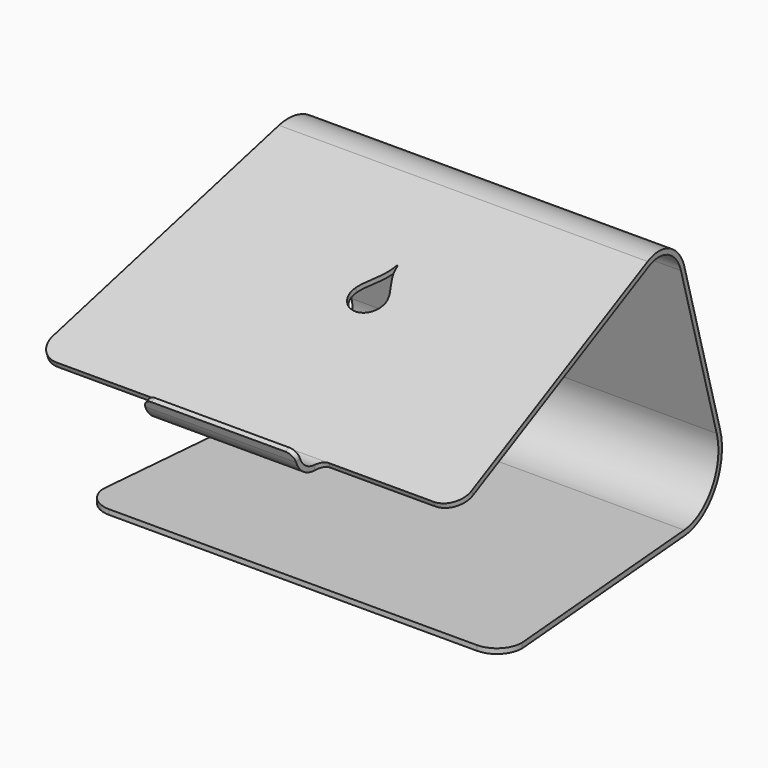
from build123d import *

# Parameters (mm, degrees)
F1_DEPTH  = 125
F2_R      = 26.25
F3_DEPTH  = 25
F4_W      = 97.6103432477
F4_H      = 17.1008444879
F5_DEPTH  = 22.5
F7_DEPTH  = 223
F9_DEPTH  = 25
F10_R     = 5
F12_DEPTH = 25


with BuildPart() as f1:
    # F0 (on Right) → F1 (new body, symmetric)
    with BuildSketch(Plane.YZ):
        with BuildLine():
            Line((150.9032388148, 0), (0, 0))
            Line((0, 0), (0, -3.0000018725))
            Line((0, -3.0000018725), (150.9032388148, -3.0000018725))
            ThreePointArc((150.9032388148, -3.0000018725), (177.0839005299, 9.9108717028), (182.778792891, 38.541028973))
            Line((182.778792891, 38.541028973), (157.1357605543, 134.2421285136))
            ThreePointArc((157.1357605543, 134.2421285136), (145.53968371, 148.6905408156), (127.0530008041, 149.9022220292))
            Line((127.0530008041, 149.9022220292), (-35.6771693401, 90.6732838797))
            ThreePointArc((-35.6771693401, 90.6732838797), (-44.8528287691, 91.0739018222), (-51.0577201094, 97.8453524901))
            Line((-51.0577201094, 97.8453524901), (-52.767820826, 102.543815594))
            Line((-52.767820826, 102.543815594), (-55.586900448, 101.5177545236))
            Line((-55.586900448, 101.5177545236), (-53.8767997313, 96.8192914196))
            ThreePointArc((-53.8767997313, 96.8192914196), (-46.1206843457, 88.354976764), (-34.6511082697, 87.8542042577))
            Line((-34.6511082697, 87.8542042577), (128.0790618745, 147.0831424073))
            ThreePointArc((128.0790618745, 147.0831424073), (144.1544370057, 146.0295066551), (154.2379812668, 133.4656708936))
            Line((154.2379812668, 133.4656708936), (179.8810136034, 37.7645713531))
            ThreePointArc((179.8810136034, 37.7645713531), (174.7038390235, 11.7371571297), (150.9032388148, 0))
        make_face()
    extrude(amount=F1_DEPTH, both=True)

    # F2 (on face) → F3 (cut)
    with BuildSketch(Plane(origin=(0, 180.1701926471, 48.2764576199), x_dir=(-1, 0, 0), z_dir=(0, 0.9659258263, 0.2588190451))):
        with Locations((0, 35)):
            Circle(F2_R)
    extrude(amount=-F3_DEPTH, mode=Mode.SUBTRACT)

    # F4 (on face) → F5 (cut, symmetric)
    with BuildSketch(Plane(origin=(0, -33.3152677142, 91.5329457678), x_dir=(1, 0, 0), z_dir=(0, -0.3420201433, 0.9396926208))):
        with Locations((93.8051716238, -11.063905455)):
            Rectangle(F4_W, F4_H)
        with Locations((-93.8051716238, -11.063905455)):
            Rectangle(F4_W, F4_H)
    extrude(amount=F5_DEPTH, both=True, mode=Mode.SUBTRACT)

    # F6 (on face) → F7 (cut)
    with BuildSketch(Plane(origin=(0, -33.3152677142, 91.5329457678), x_dir=(1, 0, 0), z_dir=(0, -0.3420201433, 0.9396926208))):
        with BuildLine():
            Line((-124.9454884285, 11.1526290369), (-110, 170.6603467676))
            Line((-110, 170.6603467676), (-107.1620267497, 200.9489946296))
            Line((-107.1620267497, 200.9489946296), (-152.5835648179, 200.9489946296))
            Line((-152.5835648179, 200.9489946296), (-152.5835648179, -22.4528324986))
            Line((-152.5835648179, -22.4528324986), (-112.5, -22.4528324986))
            Line((-112.5, -22.4528324986), (-112.5, -2.5134832111))
            ThreePointArc((-112.5, -2.5134832111), (-121.74192629, 1.5700568176), (-124.9454884285, 11.1526290369))
        make_face()
        with BuildLine():
            Line((112.5, -2.5134832111), (112.5, -22.4528324986))
            Line((112.5, -22.4528324986), (152.5835648179, -22.4528324986))
            Line((152.5835648179, -22.4528324986), (152.5835648179, 200.9489946296))
            Line((152.5835648179, 200.9489946296), (107.1620267497, 200.9489946296))
            Line((107.1620267497, 200.9489946296), (110, 170.6603467676))
            Line((110, 170.6603467676), (124.9454884285, 11.1526290369))
            ThreePointArc((124.9454884285, 11.1526290369), (121.74192629, 1.5700568176), (112.5, -2.5134832111))
        make_face()
    extrude(amount=-F7_DEPTH, mode=Mode.SUBTRACT)

    # F8 (on face) → F9 (cut)
    with BuildSketch(Plane(origin=(0, 0, -3.0000018725), x_dir=(1, 0, 0), z_dir=(0, 0, -1))):
        with BuildLine():
            ThreePointArc((-124.7078686175, -15), (-120.3144703352, -4.3933982822), (-109.7078686175, 0))
            Line((-109.7078686175, 0), (-109.7078686175, 1.8405353206))
            Line((-109.7078686175, 1.8405353206), (-139.135748148, 2.5484173093))
            Line((-139.135748148, 2.5484173093), (-139.135748148, -15))
            Line((-139.135748148, -15), (-124.7078686175, -15))
        make_face()
        with BuildLine():
            Line((109.7078686175, 1.8405353206), (109.7078686175, 0))
            ThreePointArc((109.7078686175, 0), (120.3144703352, -4.3933982822), (124.7078686175, -15))
            Line((124.7078686175, -15), (139.135748148, -15))
            Line((139.135748148, -15), (139.135748148, 2.5484173093))
            Line((139.135748148, 2.5484173093), (109.7078686175, 1.8405353206))
        make_face()
    extrude(amount=-F9_DEPTH, mode=Mode.SUBTRACT)

    # F10
    f10_edges = [f1.edges().sort_by_distance(p)[0] for p in [
        (-45, -35.164139, 89.263744),
        (45, -35.164139, 89.263744),
        (45, -54.177361, 102.030785),
        (-45, -54.177361, 102.030785),
    ]]
    fillet(f10_edges, radius=F10_R)

    # F11 (on face) → F12 (cut)
    with BuildSketch(Plane(origin=(0, -33.3152677142, 91.5329457678), x_dir=(1, 0, 0), z_dir=(0, -0.3420201433, 0.9396926208))):
        with BuildLine():
            ThreePointArc((-9.5571116428, 97.9430625287), (-8.0445828135, 89.0599084724), (0, 85))
            ThreePointArc((0, 85), (8.0445828135, 89.0599084724), (9.5571116428, 97.9430625287))
            add(Edge.make_bspline(
                [(0.2464486877, 118.196647138), (1.8167264508, 108.9800336214), (7.4531598076, 104.7753001668), (9.5571116428, 97.9430625287)],
                knots=[1.4245432684, 1.4245432684, 1.4245432684, 1.4245432684, 24.0384457394, 24.0384457394, 24.0384457394, 24.0384457394], degree=3))
            ThreePointArc((0.2464486877, 118.196647138), (0, 118.4046585168), (-0.2464486877, 118.196647138))
            add(Edge.make_bspline(
                [(-0.2464486877, 118.196647138), (-1.8167264508, 108.9800336214), (-7.4531598076, 104.7753001668), (-9.5571116428, 97.9430625287)],
                knots=[1.4245432684, 1.4245432684, 1.4245432684, 1.4245432684, 24.0384457394, 24.0384457394, 24.0384457394, 24.0384457394], degree=3))
        make_face()
    extrude(amount=-F12_DEPTH, mode=Mode.SUBTRACT)


solid = f1.part
